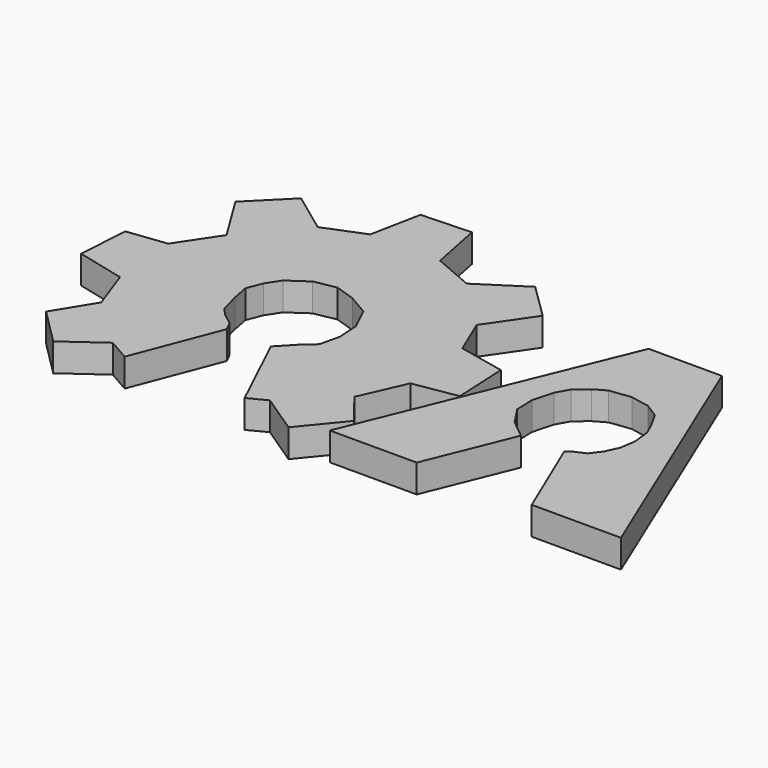
from build123d import *

# Parameters (mm, degrees)
EXTRUDE_DEPTH    = 1
EXTRUDE001_DEPTH = 1


with BuildPart() as extrude_body:
    # path848 → Extrude (new body)
    with BuildSketch(Plane(origin=(111.815985, -180.38253, 0), x_dir=(0, 1, 0), z_dir=(0, 0, 1))):
        with BuildLine():
            add(Edge.make_bspline(
                [(-4.67746, -5.179455), (4.68927, -1.281575)],
                knots=[0, 0, 10.145398, 10.145398], degree=1))
            add(Edge.make_bspline(
                [(4.68927, -1.281575), (4.68927, 1.328825)],
                knots=[0, 0, 2.6104, 2.6104], degree=1))
            add(Edge.make_bspline(
                [(4.68927, 1.328825), (-4.68927, 5.179455)],
                knots=[0, 0, 10.138262, 10.138262], degree=1))
            add(Edge.make_bspline(
                [(-4.68927, 5.179455), (-4.68927, 2.084775)],
                knots=[0, 0, 3.09468, 3.09468], degree=1))
            add(Edge.make_bspline(
                [(-4.68927, 2.084775), (-1.6064, 0.832725)],
                knots=[0, 0, 3.327419, 3.327419], degree=1))
            add(Edge.make_bspline(
                [(-1.6064, 0.832725), (-1.09849, 1.470565)],
                knots=[0, 0, 0.81536, 0.81536], degree=1))
            add(Edge.make_bspline(
                [(-1.09849, 1.470565), (-0.43704, 1.907595)],
                knots=[0, 0, 0.792787, 0.792787], degree=1))
            add(Edge.make_bspline(
                [(-0.43704, 1.907595), (0.24804, 1.931195)],
                knots=[0, 0, 0.685486, 0.685486], degree=1))
            add(Edge.make_bspline(
                [(0.24804, 1.931195), (0.98037, 1.730395)],
                knots=[0, 0, 0.75936, 0.75936], degree=1))
            add(Edge.make_bspline(
                [(0.98037, 1.730395), (1.42922, 1.482345)],
                knots=[0, 0, 0.512831, 0.512831], degree=1))
            add(Edge.make_bspline(
                [(1.42922, 1.482345), (1.79539, 1.045315)],
                knots=[0, 0, 0.570154, 0.570154], degree=1))
            add(Edge.make_bspline(
                [(1.79539, 1.045315), (2.03162, 0.631895)],
                knots=[0, 0, 0.476152, 0.476152], degree=1))
            add(Edge.make_bspline(
                [(2.03162, 0.631895), (2.12612, -0.124055)],
                knots=[0, 0, 0.761834, 0.761834], degree=1))
            add(Edge.make_bspline(
                [(2.12612, -0.124055), (1.99619, -0.797325)],
                knots=[0, 0, 0.685693, 0.685693], degree=1))
            add(Edge.make_bspline(
                [(1.99619, -0.797325), (1.67727, -1.305225)],
                knots=[0, 0, 0.599727, 0.599727], degree=1))
            add(Edge.make_bspline(
                [(1.67727, -1.305225), (1.09849, -1.624145)],
                knots=[0, 0, 0.66083, 0.66083], degree=1))
            add(Edge.make_bspline(
                [(1.09849, -1.624145), (0.72052, -1.789505)],
                knots=[0, 0, 0.412559, 0.412559], degree=1))
            add(Edge.make_bspline(
                [(0.72052, -1.789505), (0.1063, -1.860405)],
                knots=[0, 0, 0.618298, 0.618298], degree=1))
            add(Edge.make_bspline(
                [(0.1063, -1.860405), (-0.44885, -1.777705)],
                knots=[0, 0, 0.561276, 0.561276], degree=1))
            add(Edge.make_bspline(
                [(-0.44885, -1.777705), (-0.90951, -1.565095)],
                knots=[0, 0, 0.507357, 0.507357], degree=1))
            add(Edge.make_bspline(
                [(-0.90951, -1.565095), (-1.28748, -1.281615)],
                knots=[0, 0, 0.472464, 0.472464], degree=1))
            add(Edge.make_bspline(
                [(-1.28748, -1.281615), (-1.48828, -0.832765)],
                knots=[0, 0, 0.491718, 0.491718], degree=1))
            add(Edge.make_bspline(
                [(-1.48828, -0.832765), (-1.6064, -0.702835)],
                knots=[0, 0, 0.175597, 0.175597], degree=1))
            add(Edge.make_bspline(
                [(-1.6064, -0.702835), (-4.67746, -2.002135)],
                knots=[0, 0, 3.334605, 3.334605], degree=1))
            add(Edge.make_bspline(
                [(-4.67746, -2.002135), (-4.67746, -5.179455)],
                knots=[0, 0, 3.17732, 3.17732], degree=1))
        make_face()
    extrude(amount=EXTRUDE_DEPTH)


with BuildPart() as extrude001:
    # path850 → Extrude001 (new body)
    with BuildSketch(Plane(origin=(101.3803, -179.484825, 0), x_dir=(0, -1, 0), z_dir=(0, 0, -1))):
        with BuildLine():
            add(Edge.make_bspline(
                [(2.610415, 0.79139), (5.681465, 1.972562)],
                knots=[0, 0, 3.290367, 3.290367], degree=1))
            add(Edge.make_bspline(
                [(5.681465, 1.972562), (5.232615, 2.752138)],
                knots=[0, 0, 0.899558, 0.899558], degree=1))
            add(Edge.make_bspline(
                [(5.232615, 2.752138), (6.201185, 4.09868)],
                knots=[0, 0, 1.658705, 1.658705], degree=1))
            add(Edge.make_bspline(
                [(6.201185, 4.09868), (4.925515, 5.37435)],
                knots=[0, 0, 1.80407, 1.80407], degree=1))
            add(Edge.make_bspline(
                [(4.925515, 5.37435), (3.531725, 4.523902)],
                knots=[0, 0, 1.632762, 1.632762], degree=1))
            add(Edge.make_bspline(
                [(3.531725, 4.523902), (2.019825, 5.067242)],
                knots=[0, 0, 1.606568, 1.606568], degree=1))
            add(Edge.make_bspline(
                [(2.019825, 5.067242), (1.594595, 6.79176)],
                knots=[0, 0, 1.776171, 1.776171], degree=1))
            add(Edge.make_bspline(
                [(1.594595, 6.79176), (-0.224415, 6.673642)],
                knots=[0, 0, 1.822841, 1.822841], degree=1))
            add(Edge.make_bspline(
                [(-0.224415, 6.673642), (-0.389775, 5.279854)],
                knots=[0, 0, 1.403563, 1.403563], degree=1))
            add(Edge.make_bspline(
                [(-0.389775, 5.279854), (-1.807185, 4.334913)],
                knots=[0, 0, 1.703515, 1.703515], degree=1))
            add(Edge.make_bspline(
                [(-1.807185, 4.334913), (-3.531705, 5.397972)],
                knots=[0, 0, 2.025849, 2.025849], degree=1))
            add(Edge.make_bspline(
                [(-3.531705, 5.397972), (-4.830995, 4.09868)],
                knots=[0, 0, 1.837475, 1.837475], degree=1))
            add(Edge.make_bspline(
                [(-4.830995, 4.09868), (-3.767935, 2.657645)],
                knots=[0, 0, 1.79072, 1.79072], degree=1))
            add(Edge.make_bspline(
                [(-3.767935, 2.657645), (-4.334905, 1.24024)],
                knots=[0, 0, 1.526595, 1.526595], degree=1))
            add(Edge.make_bspline(
                [(-4.334905, 1.24024), (-6.130285, 0.88588)],
                knots=[0, 0, 1.830016, 1.830016], degree=1))
            add(Edge.make_bspline(
                [(-6.130285, 0.88588), (-6.201185, -0.88588)],
                knots=[0, 0, 1.773178, 1.773178], degree=1))
            add(Edge.make_bspline(
                [(-6.201185, -0.88588), (-4.311305, -1.26386)],
                knots=[0, 0, 1.927308, 1.927308], degree=1))
            add(Edge.make_bspline(
                [(-4.311305, -1.26386), (-3.697095, -2.70489)],
                knots=[0, 0, 1.566468, 1.566468], degree=1))
            add(Edge.make_bspline(
                [(-3.697095, -2.70489), (-4.736535, -4.31129)],
                knots=[0, 0, 1.913363, 1.913363], degree=1))
            add(Edge.make_bspline(
                [(-4.736535, -4.31129), (-3.508105, -5.56334)],
                knots=[0, 0, 1.754044, 1.754044], degree=1))
            add(Edge.make_bspline(
                [(-3.508105, -5.56334), (-1.925335, -4.47666)],
                knots=[0, 0, 1.919905, 1.919905], degree=1))
            add(Edge.make_bspline(
                [(-1.925335, -4.47666), (-0.578795, -5.04362)],
                knots=[0, 0, 1.461032, 1.461032], degree=1))
            add(Edge.make_bspline(
                [(-0.578795, -5.04362), (-0.224445, -6.69726)],
                knots=[0, 0, 1.69118, 1.69118], degree=1))
            add(Edge.make_bspline(
                [(-0.224445, -6.69726), (1.712685, -6.79176)],
                knots=[0, 0, 1.939434, 1.939434], degree=1))
            add(Edge.make_bspline(
                [(1.712685, -6.79176), (1.972545, -5.23261)],
                knots=[0, 0, 1.580657, 1.580657], degree=1))
            add(Edge.make_bspline(
                [(1.972545, -5.23261), (3.578945, -4.5239)],
                knots=[0, 0, 1.755788, 1.755788], degree=1))
            add(Edge.make_bspline(
                [(3.578945, -4.5239), (4.712875, -5.4216)],
                knots=[0, 0, 1.446258, 1.446258], degree=1))
            add(Edge.make_bspline(
                [(4.712875, -5.4216), (6.153905, -4.24042)],
                knots=[0, 0, 1.863264, 1.863264], degree=1))
            add(Edge.make_bspline(
                [(6.153905, -4.24042), (5.208965, -2.82301)],
                knots=[0, 0, 1.703515, 1.703515], degree=1))
            add(Edge.make_bspline(
                [(5.208965, -2.82301), (5.539695, -2.18517)],
                knots=[0, 0, 0.718486, 0.718486], degree=1))
            add(Edge.make_bspline(
                [(5.539695, -2.18517), (2.657625, -0.81501)],
                knots=[0, 0, 3.191186, 3.191186], degree=1))
            add(Edge.make_bspline(
                [(2.657625, -0.81501), (2.114285, -1.33473)],
                knots=[0, 0, 0.751882, 0.751882], degree=1))
            add(Edge.make_bspline(
                [(2.114285, -1.33473), (1.712685, -1.78358)],
                knots=[0, 0, 0.602286, 0.602286], degree=1))
            add(Edge.make_bspline(
                [(1.712685, -1.78358), (1.003985, -1.94894)],
                knots=[0, 0, 0.727736, 0.727736], degree=1))
            add(Edge.make_bspline(
                [(1.003985, -1.94894), (0.224405, -1.90164)],
                knots=[0, 0, 0.781014, 0.781014], degree=1))
            add(Edge.make_bspline(
                [(0.224405, -1.90164), (-0.602415, -1.50004)],
                knots=[0, 0, 0.919192, 0.919192], degree=1))
            add(Edge.make_bspline(
                [(-0.602415, -1.50004), (-1.027645, -0.76771)],
                knots=[0, 0, 0.846834, 0.846834], degree=1))
            add(Edge.make_bspline(
                [(-1.027645, -0.76771), (-1.263875, -0.05901)],
                knots=[0, 0, 0.747034, 0.747034], degree=1))
            add(Edge.make_bspline(
                [(-1.263875, -0.05901), (-1.122135, 0.72057)],
                knots=[0, 0, 0.792361, 0.792361], degree=1))
            add(Edge.make_bspline(
                [(-1.122135, 0.72057), (-0.649665, 1.40565)],
                knots=[0, 0, 0.832203, 0.832203], degree=1))
            add(Edge.make_bspline(
                [(-0.649665, 1.40565), (-0.177195, 1.712754)],
                knots=[0, 0, 0.563508, 0.563508], degree=1))
            add(Edge.make_bspline(
                [(-0.177195, 1.712754), (0.366145, 1.925365)],
                knots=[0, 0, 0.583457, 0.583457], degree=1))
            add(Edge.make_bspline(
                [(0.366145, 1.925365), (0.980355, 1.807247)],
                knots=[0, 0, 0.625464, 0.625464], degree=1))
            add(Edge.make_bspline(
                [(0.980355, 1.807247), (1.689065, 1.618261)],
                knots=[0, 0, 0.733475, 0.733475], degree=1))
            add(Edge.make_bspline(
                [(1.689065, 1.618261), (1.972545, 1.3584)],
                knots=[0, 0, 0.384563, 0.384563], degree=1))
            add(Edge.make_bspline(
                [(1.972545, 1.3584), (2.279655, 0.9568)],
                knots=[0, 0, 0.505568, 0.505568], degree=1))
            add(Edge.make_bspline(
                [(2.279655, 0.9568), (2.610415, 0.79139)],
                knots=[0, 0, 0.369814, 0.369814], degree=1))
        make_face()
    extrude(amount=-EXTRUDE001_DEPTH)


solid = Compound([extrude_body.part, extrude001.part])
